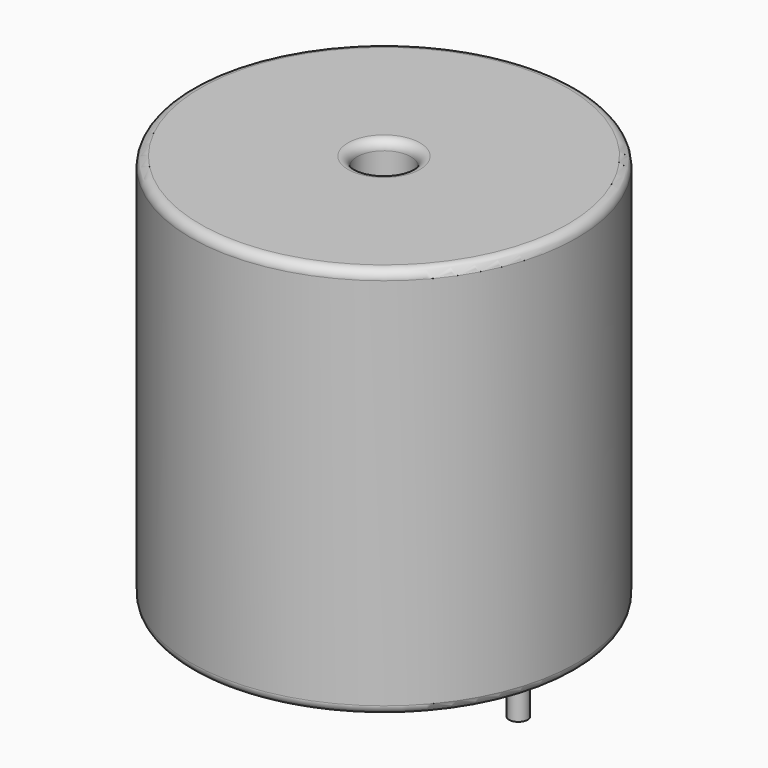
from build123d import *

# Parameters (mm, degrees)
SKETCH001_R       = 0.5
PAD001_DEPTH      = 10.67
PAD001_DEPTH_BACK = 3.5
SKETCH_R          = 10.5
SKETCH_R_2        = 1.46
PAD_DEPTH         = 21.34
FILLET_R          = 0.5


with BuildPart() as pad001:
    # Sketch001 → Pad001 (new body, two sides)
    with BuildSketch(Plane.XY.offset(0.5)) as pad001_sk:
        Circle(SKETCH001_R)
        with Locations((14.61, 0)):
            Circle(SKETCH001_R)
    extrude(amount=PAD001_DEPTH)
    extrude(pad001_sk.sketch, amount=-PAD001_DEPTH_BACK)


with BuildPart() as fillet_body:
    # Sketch → Pad (new body)
    with BuildSketch(Plane.XY.offset(0.1)):
        with Locations((7.305, 0)):
            Circle(SKETCH_R)
        with Locations((7.305, 0)):
            Circle(SKETCH_R_2, mode=Mode.SUBTRACT)
    extrude(amount=PAD_DEPTH)

    # Fillet
    fillet_edges = [fillet_body.edges().sort_by_distance(p)[0] for p in [
        (5.845, 0, 21.44),
        (-3.195, 0, 21.44),
        (-3.195, 0, 0.1),
    ]]
    fillet(fillet_edges, radius=FILLET_R)


solid = Compound([pad001.part, fillet_body.part])
